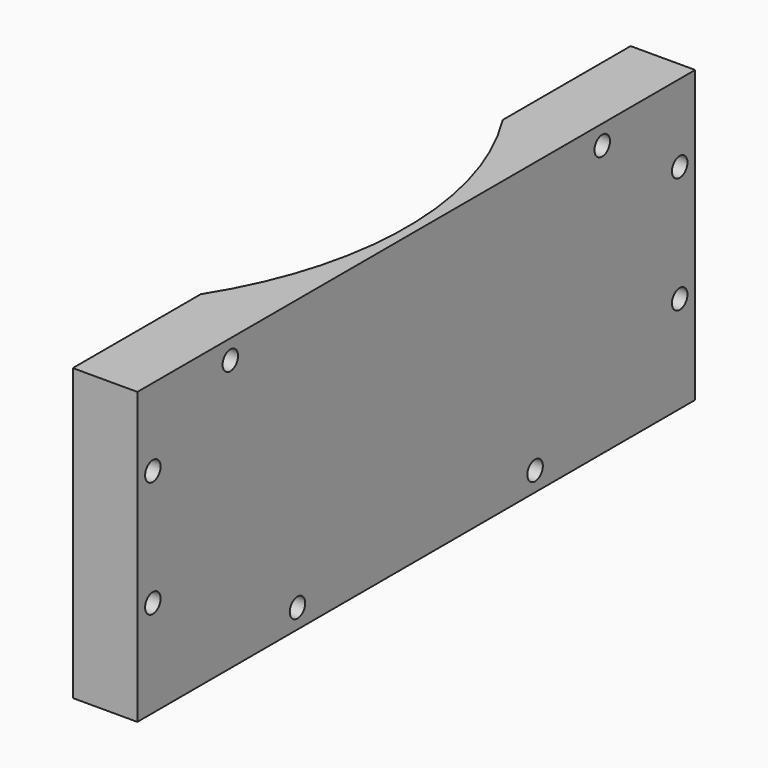
from build123d import *

# Parameters (mm, degrees)
CYLINDER447_R     = 3.5
CYLINDER447_DEPTH = 4
CYLINDER446_R     = 54.5
CYLINDER446_DEPTH = 28
CYLINDER424_R     = 1.5
CYLINDER424_DEPTH = 100
CYLINDER425_R     = 1.5
CYLINDER425_DEPTH = 100
CYLINDER426_R     = 1.5
CYLINDER426_DEPTH = 100
CYLINDER427_R     = 1.5
CYLINDER427_DEPTH = 100
CYLINDER428_R     = 1.5
CYLINDER428_DEPTH = 100
CYLINDER429_R     = 1.5
CYLINDER429_DEPTH = 100
CYLINDER430_R     = 1.5
CYLINDER430_DEPTH = 100
CYLINDER423_R     = 1.5
CYLINDER423_DEPTH = 100
BOX196_W          = 10
BOX196_H          = 108
BOX196_DEPTH      = 45


with BuildPart() as obj1:
    # Cylinder447 → Cylinder447 (new body)
    with BuildSketch(Plane(origin=(50, 0, 5), x_dir=(1, 0, 0), z_dir=(0, 0, 1))):
        Circle(CYLINDER447_R)
    extrude(amount=CYLINDER447_DEPTH)


with BuildPart() as obj2:
    # Cylinder446 → Cylinder446 (new body)
    with BuildSketch(Plane.XY.offset(9)):
        Circle(CYLINDER446_R)
    extrude(amount=CYLINDER446_DEPTH)


with BuildPart() as obj3:
    # Cylinder424 → Cylinder424 (new body)
    with BuildSketch(Plane(origin=(24, -51, 25), x_dir=(0, 0, -1), z_dir=(1, 0, 0))):
        Circle(CYLINDER424_R)
    extrude(amount=CYLINDER424_DEPTH)


with BuildPart() as obj4:
    # Cylinder425 → Cylinder425 (new body)
    with BuildSketch(Plane(origin=(24, 36, 34), x_dir=(0, 0, -1), z_dir=(1, 0, 0))):
        Circle(CYLINDER425_R)
    extrude(amount=CYLINDER425_DEPTH)


with BuildPart() as obj5:
    # Cylinder426 → Cylinder426 (new body)
    with BuildSketch(Plane(origin=(24, -36, 34), x_dir=(0, 0, -1), z_dir=(1, 0, 0))):
        Circle(CYLINDER426_R)
    extrude(amount=CYLINDER426_DEPTH)


with BuildPart() as obj6:
    # Cylinder427 → Cylinder427 (new body)
    with BuildSketch(Plane(origin=(24, -23, -5), x_dir=(0, 0, -1), z_dir=(1, 0, 0))):
        Circle(CYLINDER427_R)
    extrude(amount=CYLINDER427_DEPTH)


with BuildPart() as obj7:
    # Cylinder428 → Cylinder428 (new body)
    with BuildSketch(Plane(origin=(24, 51, 7), x_dir=(0, 0, -1), z_dir=(1, 0, 0))):
        Circle(CYLINDER428_R)
    extrude(amount=CYLINDER428_DEPTH)


with BuildPart() as obj8:
    # Cylinder429 → Cylinder429 (new body)
    with BuildSketch(Plane(origin=(24, 23, -5), x_dir=(0, 0, -1), z_dir=(1, 0, 0))):
        Circle(CYLINDER429_R)
    extrude(amount=CYLINDER429_DEPTH)


with BuildPart() as obj9:
    # Cylinder430 → Cylinder430 (new body)
    with BuildSketch(Plane(origin=(24, -51, 7), x_dir=(0, 0, -1), z_dir=(1, 0, 0))):
        Circle(CYLINDER430_R)
    extrude(amount=CYLINDER430_DEPTH)


with BuildPart() as compound588:
    # Cylinder423 → Cylinder423 (new body)
    with BuildSketch(Plane(origin=(24, 51, 25), x_dir=(0, 0, -1), z_dir=(1, 0, 0))):
        Circle(CYLINDER423_R)
    extrude(amount=CYLINDER423_DEPTH)

    # Compound588: union obj3, obj4, obj5, obj6, obj7, obj8, obj9
    add(obj3.part)
    add(obj4.part)
    add(obj5.part)
    add(obj6.part)
    add(obj7.part)
    add(obj8.part)
    add(obj9.part)


with BuildPart() as cut367:
    # Box196 → Box196 (new body)
    with BuildSketch(Plane(origin=(46, -54, -8), x_dir=(1, 0, 0), z_dir=(0, 0, 1))):
        with Locations((5, 54)):
            Rectangle(BOX196_W, BOX196_H)
    extrude(amount=BOX196_DEPTH)

    # Cut361: cut Compound588
    add(compound588.part, mode=Mode.SUBTRACT)

    # Cut366: cut obj2
    add(obj2.part, mode=Mode.SUBTRACT)

    # Cut367: cut obj1
    add(obj1.part, mode=Mode.SUBTRACT)


solid = cut367.part
